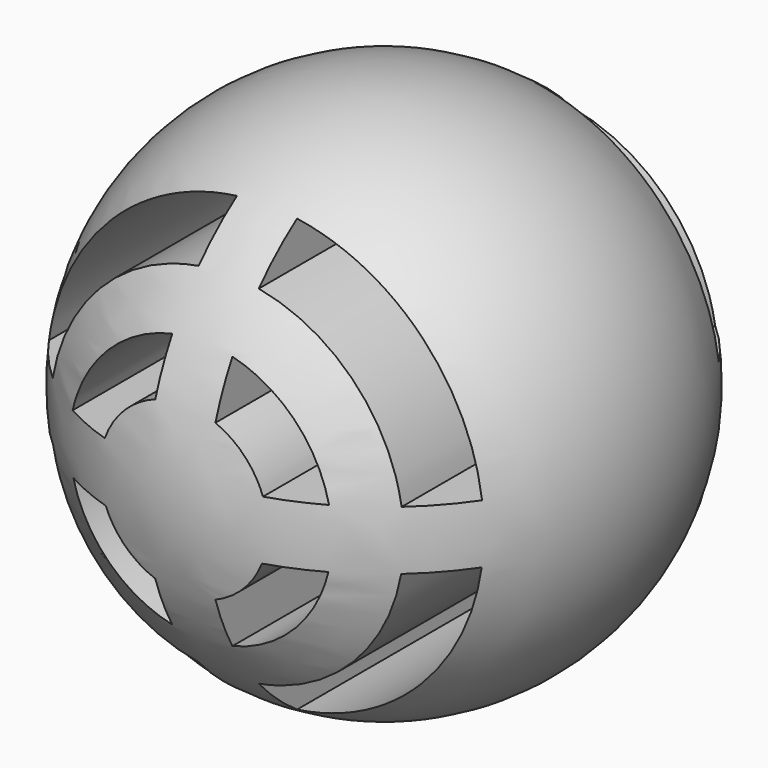
from build123d import *

# Parameters (mm, degrees)
F3_DEPTH      = 635.001
F3_DEPTH_BACK = 635.001


with BuildPart() as f1:
    # F0 (on Front) → F1 (revolve)
    with BuildSketch(Plane.XZ):
        with BuildLine():
            Line((0, -635), (0, 635))
            ThreePointArc((0, 635), (-635, 0), (0, -635))
        make_face()
    revolve(axis=Axis((0, 0, 0), (0, 0, -1)))

    # F2 (on Front) → F3 (cut, two sides)
    with BuildSketch(Plane.XZ) as f3_sk:
        with BuildLine():
            Line((-68.7930285931, 419.6385528851), (-68.7930285931, 521.0308650177))
            ThreePointArc((-68.7930285931, 521.0308650177), (-371.924238815, 371.3192745683), (-521.1421629514, 67.9447501898))
            Line((-521.1421629514, 67.9447501898), (-419.7767344341, 67.9447501898))
            ThreePointArc((-419.7767344341, 67.9447501898), (-300.9937475259, 300.3860179849), (-68.7930285931, 419.6385528851))
        make_face()
        with BuildLine():
            ThreePointArc((521.1421629514, 67.9447501898), (374.4532709289, 368.7687499975), (75.908228755, 520.0419058993))
            Line((75.908228755, 520.0419058993), (75.908228755, 418.4100102265))
            ThreePointArc((75.908228755, 418.4100102265), (303.5331453171, 297.8197870263), (419.7767344341, 67.9447501898))
            Line((419.7767344341, 67.9447501898), (521.1421629514, 67.9447501898))
        make_face()
        with BuildLine():
            ThreePointArc((75.908228755, -520.0419058993), (372.1123300156, -371.1307814429), (520.2405848329, -74.5344012976))
            Line((520.2405848329, -74.5344012976), (418.6569226392, -74.5344012976))
            ThreePointArc((418.6569226392, -74.5344012976), (301.1831350648, -300.1961275617), (75.908228755, -418.4100102265))
            Line((75.908228755, -418.4100102265), (75.908228755, -520.0419058993))
        make_face()
        with BuildLine():
            Line((-68.7930285931, 189.9623297509), (-68.7930285931, 308.2805801706))
            ThreePointArc((-68.7930285931, 308.2805801706), (-223.6558098066, 223.0414213394), (-308.4686496469, 67.9447501898))
            Line((-308.4686496469, 67.9447501898), (-190.2673866669, 67.9447501898))
            ThreePointArc((-190.2673866669, 67.9447501898), (-143.1787243942, 142.5412936248), (-68.7930285931, 189.9623297509))
        make_face()
        with BuildLine():
            ThreePointArc((187.7838931607, -74.5344012976), (143.3827538067, -142.3360580394), (75.908228755, -187.2327650671))
            Line((75.908228755, -187.2327650671), (75.908228755, -306.6061605719))
            ThreePointArc((75.908228755, -306.6061605719), (223.8483767569, -222.8481570861), (306.943023893, -74.5344012976))
            Line((306.943023893, -74.5344012976), (187.7838931607, -74.5344012976))
        make_face()
        with BuildLine():
            ThreePointArc((308.4686496469, 67.9447501898), (226.2216023369, 220.4386162392), (75.908228755, 306.6061605719))
            Line((75.908228755, 306.6061605719), (75.908228755, 187.2327650671))
            ThreePointArc((75.908228755, 187.2327650671), (145.8415996369, 139.8155761092), (190.2673866669, 67.9447501898))
            Line((190.2673866669, 67.9447501898), (308.4686496469, 67.9447501898))
        make_face()
        with BuildLine():
            Line((-68.7930285931, -521.0308650177), (-68.7930285931, -419.6385528851))
            ThreePointArc((-68.7930285931, -419.6385528851), (-298.6236470875, -302.7423215388), (-418.6569226392, -74.5344012976))
            Line((-418.6569226392, -74.5344012976), (-520.2405848329, -74.5344012976))
            ThreePointArc((-520.2405848329, -74.5344012976), (-369.5672096724, -373.6652520894), (-68.7930285931, -521.0308650177))
        make_face()
        with BuildLine():
            Line((-187.7838931607, -74.5344012976), (-306.943023893, -74.5344012976))
            ThreePointArc((-306.943023893, -74.5344012976), (-221.2548628141, -225.4233407934), (-68.7930285931, -308.2805801706))
            Line((-68.7930285931, -308.2805801706), (-68.7930285931, -189.9623297509))
            ThreePointArc((-68.7930285931, -189.9623297509), (-140.6727793886, -145.0149531823), (-187.7838931607, -74.5344012976))
        make_face()
    extrude(amount=-F3_DEPTH, mode=Mode.SUBTRACT)
    extrude(f3_sk.sketch, amount=F3_DEPTH_BACK, mode=Mode.SUBTRACT)


solid = f1.part
